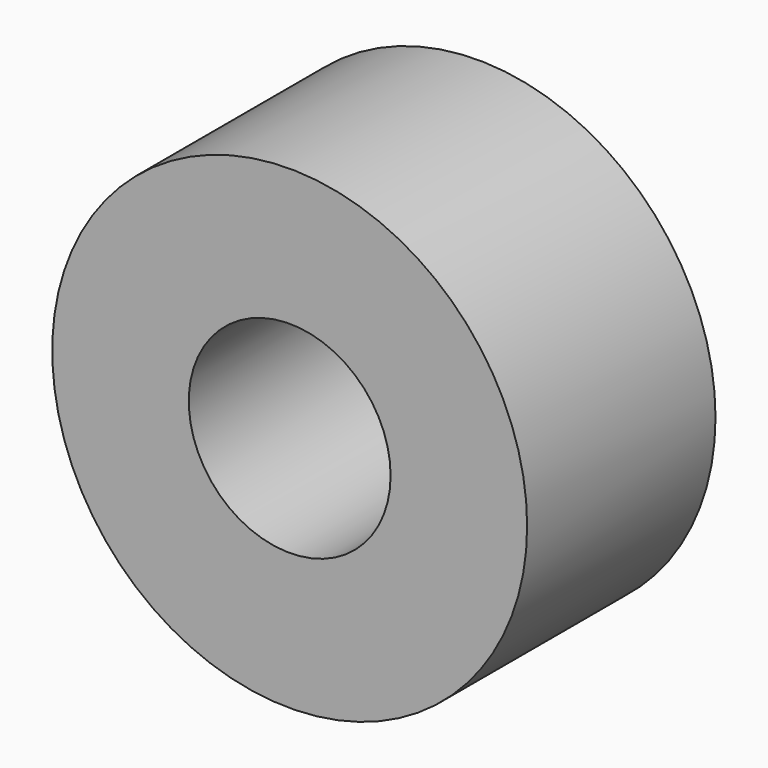
from build123d import *

# Parameters (mm, degrees)
F0_R     = 30
F0_R_2   = 12.75
F2_DEPTH = 29.75


with BuildPart() as f2:
    # F0 (on Front) → F2 (new body, through all)
    with BuildSketch(Plane.XZ):
        with Locations((30.369274, 30)):
            Circle(F0_R)
        with Locations((30.369274, 30)):
            Circle(F0_R_2, mode=Mode.SUBTRACT)
    extrude(amount=-F2_DEPTH)


solid = f2.part
